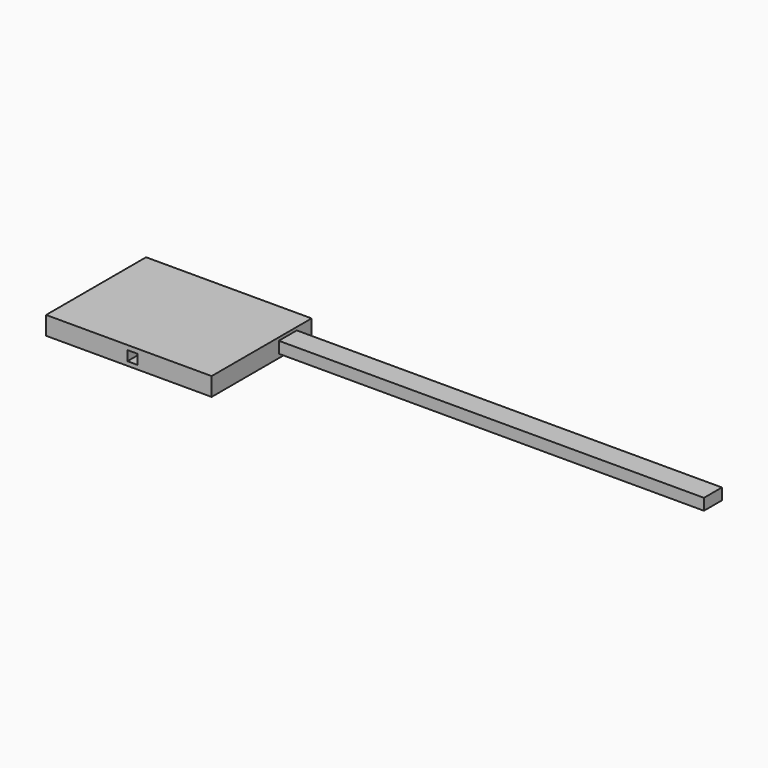
from build123d import *

# Parameters (mm, degrees)
F0_W     = 3178.218365
F0_H     = 352.465406
F0_W_2   = 196.740776
F0_H_2   = 188.893698
F1_DEPTH = 2399.083138
F2_W     = 302.773371
F2_H     = 302.019119
F3_DEPTH = 25.4
F4_W     = 431.400299
F4_H     = 218.729809
F5_DEPTH = 25.4
F6_W     = 431.400299
F6_H     = 218.729809
F7_DEPTH = 8136.214256


with BuildPart() as f1:
    # F0 (on Front) → F1 (new body)
    with BuildSketch(Plane.XZ):
        with Locations((-67.185163, 4.43732)):
            Rectangle(F0_W, F0_H)
        with Locations((3.594011, 1.034964)):
            Rectangle(F0_W_2, F0_H_2, mode=Mode.SUBTRACT)
    extrude(amount=F1_DEPTH)

    # F2 (on Front) → F3 (join)
    with BuildSketch(Plane.XZ):
        with Locations((-67.37674, 3.199696)):
            Rectangle(F2_W, F2_H)
    extrude(amount=F3_DEPTH)

    # F4 (on face) → F5 (join)
    with BuildSketch(Plane.YZ.offset(1521.924019)):
        with Locations((-570.919394, 12.561157)):
            Rectangle(F4_W, F4_H)
    extrude(amount=F5_DEPTH)

    # F6 (on face) → F7 (join)
    with BuildSketch(Plane.YZ.offset(1547.324019)):
        with Locations((-570.919394, 12.561157)):
            Rectangle(F6_W, F6_H)
    extrude(amount=F7_DEPTH)


solid = f1.part
